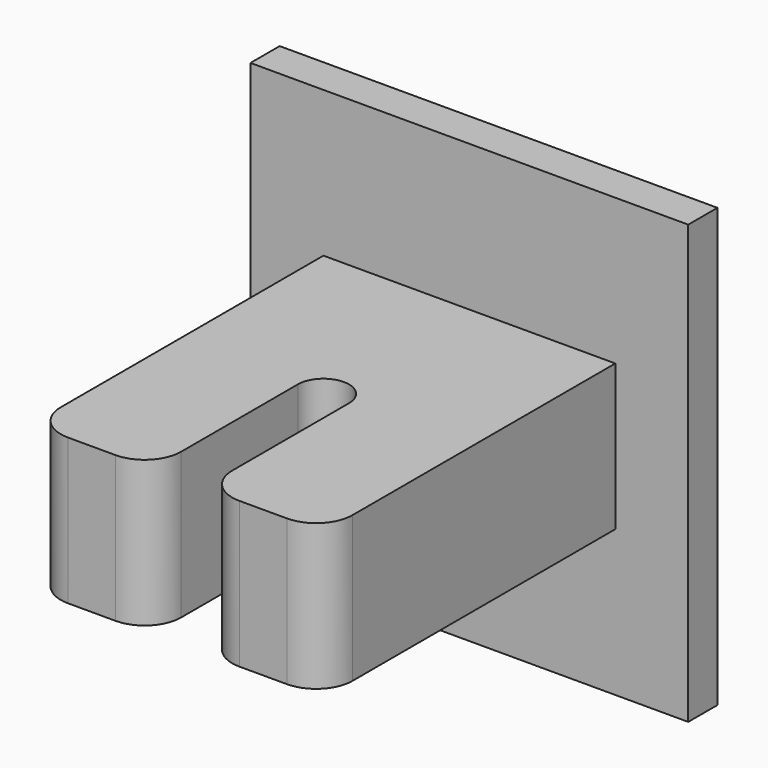
from build123d import *

# Parameters (mm, degrees)
F1_DEPTH = 50
F3_DEPTH = 25
F5_DEPTH = 5
F6_R     = 5


with BuildPart() as f1:
    # F0 (on Front) → F1 (new body)
    with BuildSketch(Plane.XZ):
        Polygon((20, 10), (0, 10), (-20, 10), (-20, -10), (20, -10), align=None)
    extrude(amount=F1_DEPTH)

    # F2 (on face) → F3 (cut)
    with BuildSketch(Plane(origin=(0, 0, -10), x_dir=(1, 0, 0), z_dir=(0, 0, -1))):
        with BuildLine():
            Line((-3.5, 50), (-3.5, 25))
            ThreePointArc((-3.5, 25), (0, 21.5), (3.5, 25))
            Line((3.5, 25), (3.5, 50))
            Line((3.5, 50), (-3.5, 50))
        make_face()
    extrude(amount=-F3_DEPTH, mode=Mode.SUBTRACT)

    # F4 (on face) → F5 (join)
    with BuildSketch(Plane(origin=(0, 0, 0), x_dir=(-1, 0, 0), z_dir=(0, 1, 0))):
        Polygon((-30, 30), (-30, 0), (-30, -30), (30, -30), (30, 30), align=None)
        Polygon((-20, -10), (-20, 0), (-20, 10), (20, 10), (20, -10), align=None, mode=Mode.SUBTRACT)
        Polygon((-20, 10), (-20, 0), (-20, -10), (20, -10), (20, 10), align=None)
    extrude(amount=F5_DEPTH)

    # F6
    f6_edges = [f1.edges().sort_by_distance(p)[0] for p in [
        (20, -50, 0),
        (3.5, -50, 0),
        (-3.5, -50, 0),
        (-20, -50, 0),
    ]]
    fillet(f6_edges, radius=F6_R)


solid = f1.part
